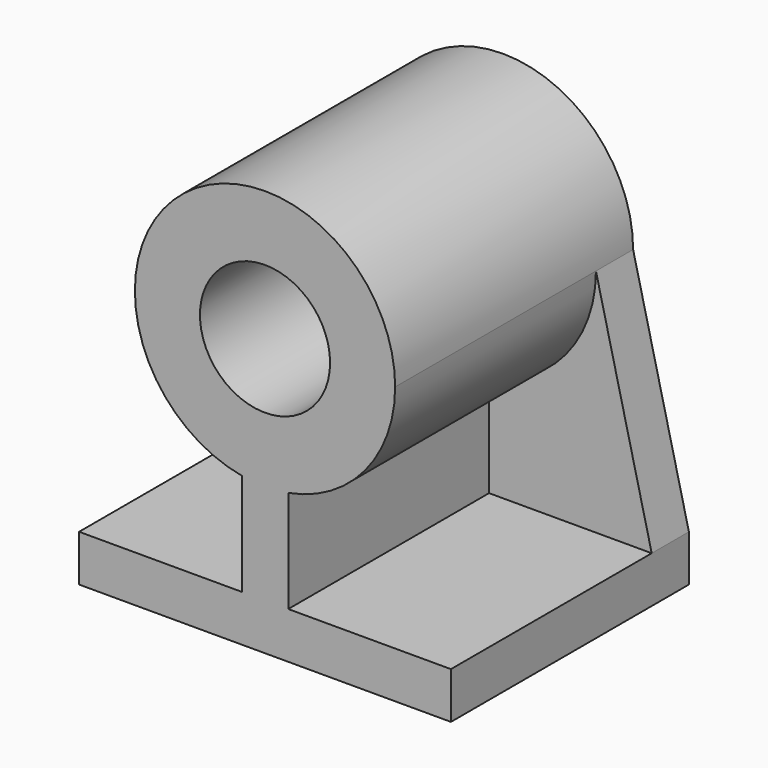
from build123d import *

# Parameters (mm, degrees)
F0_R     = 14
F1_DEPTH = 64
F2_DEPTH = 10


with BuildPart() as f1:
    # F0 (on Front) → F1 (new body)
    with BuildSketch(Plane.XZ):
        with BuildLine():
            Line((0, 10), (0, 0))
            Line((0, 0), (80, 0))
            Line((80, 0), (80, 10))
            Line((80, 10), (45, 10))
            Line((45, 10), (45, 32))
            ThreePointArc((45, 32), (61.494185, 41.605596), (68, 59.549955))
            ThreePointArc((68, 59.549955), (40, 87.549955), (12, 59.549955))
            ThreePointArc((12, 59.549955), (18.505815, 41.605596), (35, 32))
            Line((35, 32), (35, 10))
            Line((35, 10), (0, 10))
        make_face()
        with Locations((40, 59.549955)):
            Circle(F0_R, mode=Mode.SUBTRACT)
    extrude(amount=F1_DEPTH)

    # F0 (on Front) → F2 (join)
    with BuildSketch(Plane.XZ):
        with BuildLine():
            Line((12, 59.549955), (0, 10))
            Line((0, 10), (35, 10))
            Line((35, 10), (35, 32))
            ThreePointArc((35, 32), (18.505815, 41.605596), (12, 59.549955))
        make_face()
        with BuildLine():
            Line((45, 10), (80, 10))
            Line((80, 10), (68, 59.549955))
            ThreePointArc((68, 59.549955), (61.494185, 41.605596), (45, 32))
            Line((45, 32), (45, 10))
        make_face()
    extrude(amount=F2_DEPTH)


solid = f1.part
